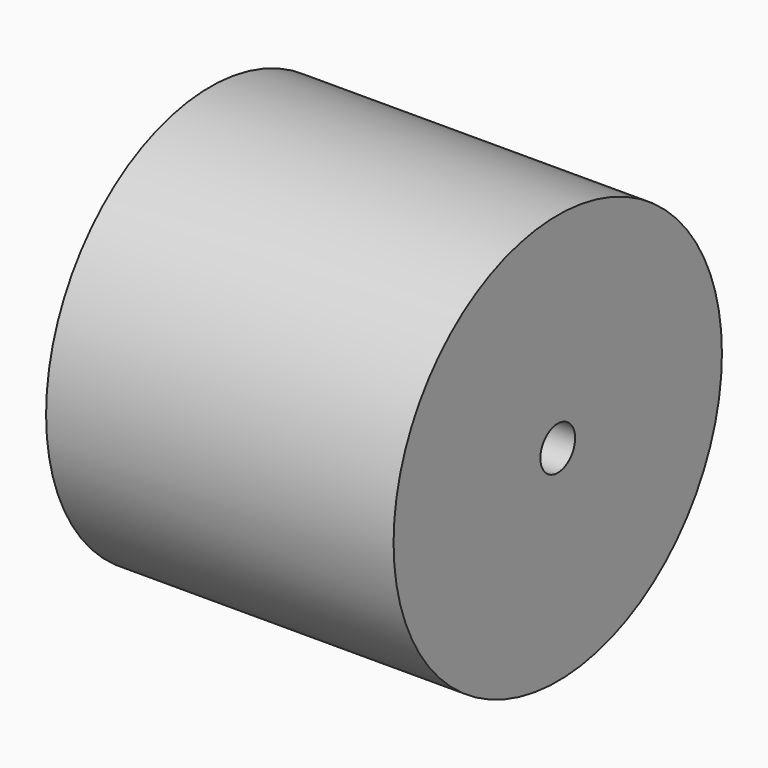
from build123d import *

# Parameters (mm, degrees)
F0_R     = 15
F0_R_2   = 1.5875
F1_DEPTH = 25.4
F3_D     = 3.75
F3_DEPTH = 12.7
F3_TIP   = 1.1266136607
F4_D     = 3.25
F4_DEPTH = 12.7
F4_TIP   = 0.9763985059
F5_D     = 2.75
F5_DEPTH = 12.7
F5_TIP   = 0.8261833512
F6_D     = 2.25
F6_DEPTH = 12.7
F6_TIP   = 0.6759681964
F7_D     = 15
F7_DEPTH = 6.35
F7_TIP   = 4.5064546427


with BuildPart() as f1:
    # F0 (on Right) → F1 (new body)
    with BuildSketch(Plane.YZ):
        Circle(F0_R)
        Circle(F0_R_2, mode=Mode.SUBTRACT)
    extrude(amount=F1_DEPTH)

    # F3
    with Locations(Plane(origin=(0, 0, 0), x_dir=(0, -1, 0), z_dir=(-1, 0, 0))):
        with Locations((-11.8882064537, 3.8627124297), (-7.3473156537, 10.1127124297), (0, 12.5), (7.3473156537, 10.1127124297), (11.8882064537, 3.8627124297), (11.8882064537, -3.8627124297), (7.3473156537, -10.1127124297), (0, -12.5), (-7.3473156537, -10.1127124297), (-11.8882064537, -3.8627124297)):
            Hole(F3_D / 2, depth=F3_DEPTH)
            with Locations((0, 0, -(F3_DEPTH + F3_TIP / 2))):  # 118° drill point
                Cone(0, F3_D / 2, F3_TIP, mode=Mode.SUBTRACT)

    # F4
    with Locations(Plane(origin=(0, 0, 0), x_dir=(0, -1, 0), z_dir=(-1, 0, 0))):
        with Locations((-8.0901699437, -5.8778525229), (-10, 0), (-8.0901699437, 5.8778525229), (-3.0901699437, 9.510565163), (3.0901699437, 9.510565163), (8.0901699437, 5.8778525229), (10, 0), (8.0901699437, -5.8778525229), (3.0901699437, -9.510565163), (-3.0901699437, -9.510565163)):
            Hole(F4_D / 2, depth=F4_DEPTH)
            with Locations((0, 0, -(F4_DEPTH + F4_TIP / 2))):  # 118° drill point
                Cone(0, F4_D / 2, F4_TIP, mode=Mode.SUBTRACT)

    # F5
    with Locations(Plane(origin=(0, 0, 0), x_dir=(0, -1, 0), z_dir=(-1, 0, 0))):
        with Locations((-7.1329238722, -2.3176274578), (-7.1329238722, 2.3176274578), (-4.4083893922, 6.0676274578), (0, 7.5), (4.4083893922, 6.0676274578), (7.1329238722, 2.3176274578), (7.1329238722, -2.3176274578), (4.4083893922, -6.0676274578), (0, -7.5), (-4.4083893922, -6.0676274578)):
            Hole(F5_D / 2, depth=F5_DEPTH)
            with Locations((0, 0, -(F5_DEPTH + F5_TIP / 2))):  # 118° drill point
                Cone(0, F5_D / 2, F5_TIP, mode=Mode.SUBTRACT)

    # F6
    with Locations(Plane(origin=(0, 0, 0), x_dir=(0, -1, 0), z_dir=(-1, 0, 0))):
        with Locations((-4.0450849719, -2.9389262615), (-5, 0), (-4.0450849719, 2.9389262615), (-1.5450849719, 4.7552825815), (1.5450849719, 4.7552825815), (4.0450849719, 2.9389262615), (5, 0), (4.0450849719, -2.9389262615), (1.5450849719, -4.7552825815), (-1.5450849719, -4.7552825815)):
            Hole(F6_D / 2, depth=F6_DEPTH)
            with Locations((0, 0, -(F6_DEPTH + F6_TIP / 2))):  # 118° drill point
                Cone(0, F6_D / 2, F6_TIP, mode=Mode.SUBTRACT)

    # F7
    with Locations(Plane(origin=(0, 0, 0), x_dir=(0, 1, 0), z_dir=(-1, 0, 0))):
        with Locations((0, 0)):
            Hole(F7_D / 2, depth=F7_DEPTH)
            with Locations((0, 0, -(F7_DEPTH + F7_TIP / 2))):  # 118° drill point
                Cone(0, F7_D / 2, F7_TIP, mode=Mode.SUBTRACT)


solid = f1.part
